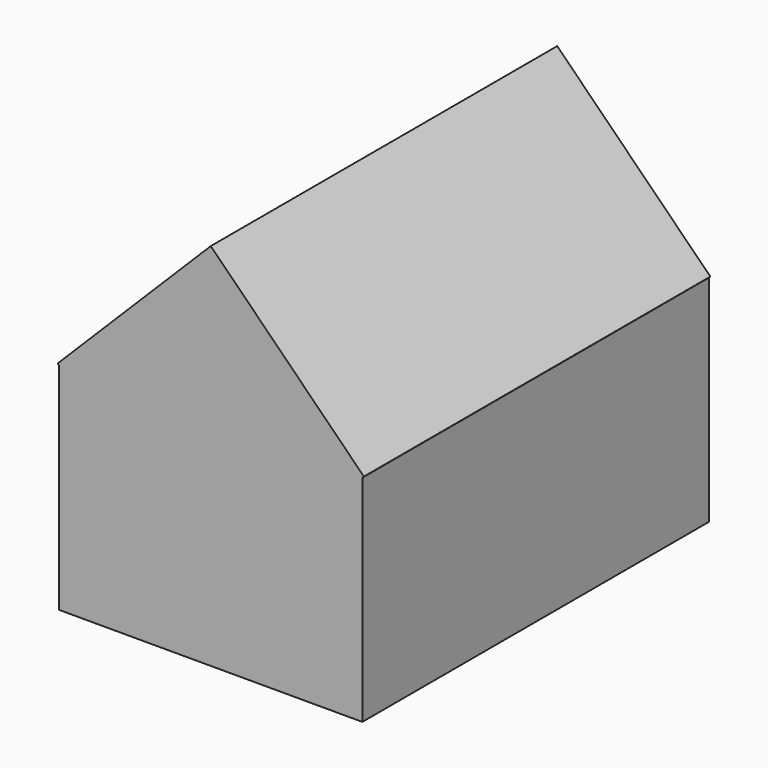
from build123d import *

# Parameters (mm, degrees)
BOX001_W            = 14
BOX001_H            = 20
BOX001_DEPTH        = 10
BOX_W               = 10
BOX_H               = 20
BOX_DEPTH           = 10
BOX_PLACEMENT_ANGLE = 45


with BuildPart() as cubo001:
    # Box001 → Box001 (new body)
    with BuildSketch(Plane(origin=(-2, 0, 0), x_dir=(1, 0, 0), z_dir=(0, 0, 1))):
        with Locations((7, 10)):
            Rectangle(BOX001_W, BOX001_H)
    extrude(amount=BOX001_DEPTH)


with BuildPart() as fusion:
    # Box → Box (new body)
    with BuildSketch(Plane.XY):
        with Locations((5, 10)):
            Rectangle(BOX_W, BOX_H)
    extrude(amount=BOX_DEPTH)


with BuildPart() as fusion_1:
    # Box placement: moved
    add(fusion.part.moved(Location((-2.071068, 0, 10))).rotate(Axis((-2.071068, 0, 10), (0, 1, 0)), BOX_PLACEMENT_ANGLE))

    # Fusion: union Cubo001
    add(cubo001.part)


solid = fusion_1.part
